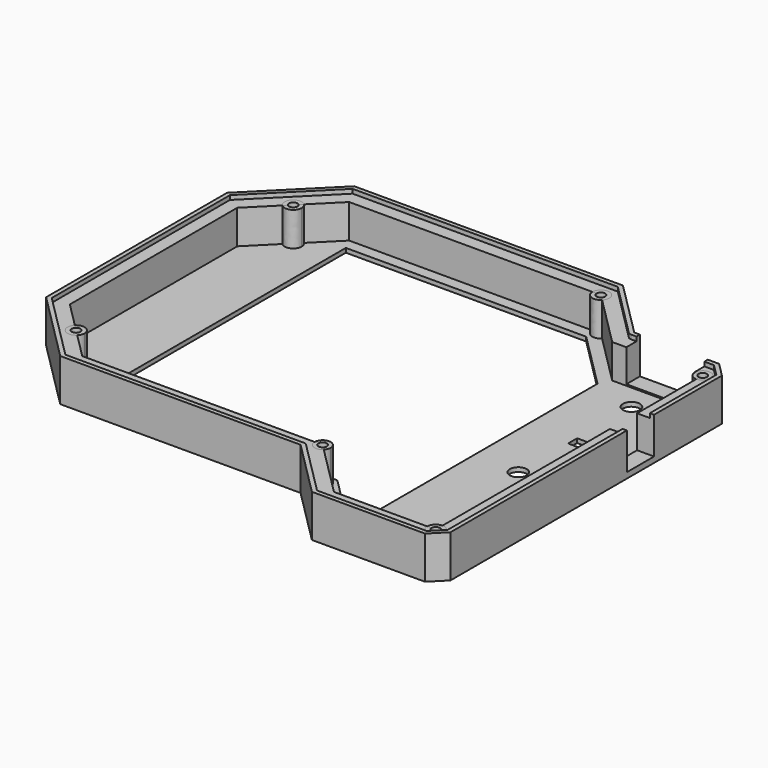
from build123d import *

# Parameters (mm, degrees)
PAD007_DEPTH    = 15
THICKNESS001_T  = -1.5
PAD008_DEPTH    = 13.5
POCKET009_DEPTH = 12
PAD009_DEPTH    = 13.5
POCKET010_DEPTH = 10
SKETCH028_R     = 3
POCKET011_DEPTH = 15.001
POCKET012_DEPTH = 10
SKETCH031_W     = 14
SKETCH031_H     = 12
POCKET013_DEPTH = 10


with BuildPart() as part:
    # Sketch024 → Pad007 (new body)
    with BuildSketch(Plane.XY):
        with BuildLine():
            add(Edge.make_bspline(
                [(154.99842, -32.99968), (184.99836, -32.99968)],
                knots=[0, 0, 11811, 11811], degree=1))
            add(Edge.make_bspline(
                [(184.99836, -32.99968), (189.99962, -37.9984)],
                knots=[0, 0, 2783.879487, 2783.879487], degree=1))
            add(Edge.make_bspline(
                [(189.99962, -37.9984), (189.99962, -157.99816)],
                knots=[0, 0, 47244, 47244], degree=1))
            add(Edge.make_bspline(
                [(189.99962, -157.99816), (184.99836, -162.99942)],
                knots=[0, 0, 2784.586504, 2784.586504], degree=1))
            add(Edge.make_bspline(
                [(184.99836, -162.99942), (144.99844, -162.99942)],
                knots=[0, 0, 15748, 15748], degree=1))
            add(Edge.make_bspline(
                [(144.99844, -162.99942), (124.99848, -142.99946)],
                knots=[0, 0, 11135.51759, 11135.51759], degree=1))
            add(Edge.make_bspline(
                [(124.99848, -142.99946), (39.99992, -142.99946)],
                knots=[0, 0, 33464, 33464], degree=1))
            add(Edge.make_bspline(
                [(39.99992, -142.99946), (14.9987, -117.99824)],
                knots=[0, 0, 13920.104094, 13920.104094], degree=1))
            add(Edge.make_bspline(
                [(14.9987, -117.99824), (14.9987, -37.9984)],
                knots=[0, 0, 31496, 31496], degree=1))
            add(Edge.make_bspline(
                [(14.9987, -37.9984), (39.99992, -12.99972)],
                knots=[0, 0, 13919.397006, 13919.397006], degree=1))
            add(Edge.make_bspline(
                [(39.99992, -12.99972), (134.99846, -12.99972)],
                knots=[0, 0, 37401, 37401], degree=1))
            add(Edge.make_bspline(
                [(134.99846, -12.99972), (154.99842, -32.99968)],
                knots=[0, 0, 11135.51759, 11135.51759], degree=1))
        make_face()
    extrude(amount=PAD007_DEPTH)

    # Thickness001
    thickness001_openings = [part.faces().sort_by_distance(p)[0] for p in [
        (104.958123, -83.896462, 15),
    ]]
    offset(amount=THICKNESS001_T, openings=thickness001_openings)

    # Sketch024 → Pad008 (join)
    with BuildSketch(Plane.XY):
        with BuildLine():
            add(Edge.make_bspline(
                [(154.99842, -32.99968), (184.99836, -32.99968)],
                knots=[0, 0, 11811, 11811], degree=1))
            add(Edge.make_bspline(
                [(184.99836, -32.99968), (189.99962, -37.9984)],
                knots=[0, 0, 2783.879487, 2783.879487], degree=1))
            add(Edge.make_bspline(
                [(189.99962, -37.9984), (189.99962, -157.99816)],
                knots=[0, 0, 47244, 47244], degree=1))
            add(Edge.make_bspline(
                [(189.99962, -157.99816), (184.99836, -162.99942)],
                knots=[0, 0, 2784.586504, 2784.586504], degree=1))
            add(Edge.make_bspline(
                [(184.99836, -162.99942), (144.99844, -162.99942)],
                knots=[0, 0, 15748, 15748], degree=1))
            add(Edge.make_bspline(
                [(144.99844, -162.99942), (124.99848, -142.99946)],
                knots=[0, 0, 11135.51759, 11135.51759], degree=1))
            add(Edge.make_bspline(
                [(124.99848, -142.99946), (39.99992, -142.99946)],
                knots=[0, 0, 33464, 33464], degree=1))
            add(Edge.make_bspline(
                [(39.99992, -142.99946), (14.9987, -117.99824)],
                knots=[0, 0, 13920.104094, 13920.104094], degree=1))
            add(Edge.make_bspline(
                [(14.9987, -117.99824), (14.9987, -37.9984)],
                knots=[0, 0, 31496, 31496], degree=1))
            add(Edge.make_bspline(
                [(14.9987, -37.9984), (39.99992, -12.99972)],
                knots=[0, 0, 13919.397006, 13919.397006], degree=1))
            add(Edge.make_bspline(
                [(39.99992, -12.99972), (134.99846, -12.99972)],
                knots=[0, 0, 37401, 37401], degree=1))
            add(Edge.make_bspline(
                [(134.99846, -12.99972), (154.99842, -32.99968)],
                knots=[0, 0, 11135.51759, 11135.51759], degree=1))
        make_face()
    extrude(amount=PAD008_DEPTH)

    # Sketch025 (on Face41 of Pad008) → Pocket009 (cut)
    with BuildSketch(Plane.XY.offset(13.5)):
        with BuildLine():
            add(Edge.make_bspline(
                [(42.99966, -18.9992), (131.99872, -18.9992)],
                knots=[0, 0, 35039, 35039], degree=1))
            add(Edge.make_bspline(
                [(131.99872, -18.9992), (151.99868, -38.99916)],
                knots=[0, 0, 11135.51759, 11135.51759], degree=1))
            add(Edge.make_bspline(
                [(151.99868, -38.99916), (183.9976, -38.99916)],
                knots=[0, 0, 12598, 12598], degree=1))
            add(Edge.make_bspline(
                [(183.9976, -38.99916), (183.9976, -156.99994)],
                knots=[0, 0, 46457, 46457], degree=1))
            add(Edge.make_bspline(
                [(183.9976, -156.99994), (147.99818, -156.99994)],
                knots=[0, 0, 14173, 14173], degree=1))
            add(Edge.make_bspline(
                [(147.99818, -156.99994), (127.99822, -136.99998)],
                knots=[0, 0, 11135.51759, 11135.51759], degree=1))
            add(Edge.make_bspline(
                [(127.99822, -136.99998), (42.99966, -136.99998)],
                knots=[0, 0, 33464, 33464], degree=1))
            add(Edge.make_bspline(
                [(42.99966, -136.99998), (20.99818, -114.9985)],
                knots=[0, 0, 12249.917877, 12249.917877], degree=1))
            add(Edge.make_bspline(
                [(20.99818, -114.9985), (20.99818, -40.99814)],
                knots=[0, 0, 29134, 29134], degree=1))
            add(Edge.make_bspline(
                [(20.99818, -40.99814), (42.99966, -18.9992)],
                knots=[0, 0, 12249.210791, 12249.210791], degree=1))
        make_face()
    extrude(amount=-POCKET009_DEPTH, mode=Mode.SUBTRACT)

    # Sketch026 → Pad009 (join)
    with BuildSketch(Plane.XY):
        with BuildLine():
            add(Edge.make_bspline(
                [(186.828303, -38.999922), (186.828303, -34.10096), (182.585678, -36.550441), (178.343052, -38.999922), (182.585678, -41.449403), (186.828303, -43.898884), (186.828303, -38.999922)],
                knots=[0, 0, 0, 2.094395, 2.094395, 4.18879, 4.18879, 6.283185, 6.283185, 6.283185], degree=2, weights=[1, 0.5, 1, 0.5, 1, 0.5, 1]))
        make_face()
        with BuildLine():
            add(Edge.make_bspline(
                [(186.99988, -156.99994), (186.99988, -151.803798), (182.499889, -154.401869), (177.999898, -156.99994), (182.499889, -159.598011), (186.99988, -162.196082), (186.99988, -156.99994)],
                knots=[0, 0, 0, 2.094395, 2.094395, 4.18879, 4.18879, 6.283185, 6.283185, 6.283185], degree=2, weights=[1, 0.5, 1, 0.5, 1, 0.5, 1]))
        make_face()
        with BuildLine():
            add(Edge.make_bspline(
                [(130.828415, -136.99998), (130.828415, -132.101018), (126.585789, -134.550499), (122.343164, -136.99998), (126.585789, -139.449461), (130.828415, -141.898942), (130.828415, -136.99998)],
                knots=[0, 0, 0, 2.094395, 2.094395, 4.18879, 4.18879, 6.283185, 6.283185, 6.283185], degree=2, weights=[1, 0.5, 1, 0.5, 1, 0.5, 1]))
        make_face()
        with BuildLine():
            add(Edge.make_bspline(
                [(34.99993, -126.000002), (34.99993, -120.80386), (30.499939, -123.401931), (25.999948, -126.000002), (30.499939, -128.598073), (34.99993, -131.196144), (34.99993, -126.000002)],
                knots=[0, 0, 0, 2.094395, 2.094395, 4.18879, 4.18879, 6.283185, 6.283185, 6.283185], degree=2, weights=[1, 0.5, 1, 0.5, 1, 0.5, 1]))
        make_face()
        with BuildLine():
            add(Edge.make_bspline(
                [(34.99993, -29.99994), (34.99993, -24.803798), (30.499939, -27.401869), (25.999948, -29.99994), (30.499939, -32.598011), (34.99993, -35.196082), (34.99993, -29.99994)],
                knots=[0, 0, 0, 2.094395, 2.094395, 4.18879, 4.18879, 6.283185, 6.283185, 6.283185], degree=2, weights=[1, 0.5, 1, 0.5, 1, 0.5, 1]))
        make_face()
        with BuildLine():
            add(Edge.make_bspline(
                [(134.999984, -18.999987), (134.999984, -13.803845), (130.499993, -16.401916), (126.000002, -18.999987), (130.499993, -21.598058), (134.999984, -24.196129), (134.999984, -18.999987)],
                knots=[0, 0, 0, 2.094395, 2.094395, 4.18879, 4.18879, 6.283185, 6.283185, 6.283185], degree=2, weights=[1, 0.5, 1, 0.5, 1, 0.5, 1]))
        make_face()
    extrude(amount=PAD009_DEPTH)

    # Sketch027 (on Face47 of Pad009) → Pocket010 (cut)
    with BuildSketch(Plane.XY.offset(13.5)):
        with BuildLine():
            add(Edge.make_bspline(
                [(33.499936, -29.99994), (33.499936, -27.401865), (31.249936, -28.700902), (28.999937, -29.99994), (31.249936, -31.298978), (33.499936, -32.598015), (33.499936, -29.99994)],
                knots=[0, 0, 0, 2.094395, 2.094395, 4.18879, 4.18879, 6.283185, 6.283185, 6.283185], degree=2, weights=[1, 0.5, 1, 0.5, 1, 0.5, 1]))
        make_face()
        with BuildLine():
            add(Edge.make_bspline(
                [(133.49999, -18.999987), (133.49999, -16.401912), (131.24999, -17.70095), (128.999991, -18.999987), (131.24999, -20.299025), (133.49999, -21.598063), (133.49999, -18.999987)],
                knots=[0, 0, 0, 2.094395, 2.094395, 4.18879, 4.18879, 6.283185, 6.283185, 6.283185], degree=2, weights=[1, 0.5, 1, 0.5, 1, 0.5, 1]))
        make_face()
        with BuildLine():
            add(Edge.make_bspline(
                [(185.499886, -38.999922), (185.499886, -36.401847), (183.249886, -37.700884), (180.999887, -38.999922), (183.249886, -40.29896), (185.499886, -41.597997), (185.499886, -38.999922)],
                knots=[0, 0, 0, 2.094395, 2.094395, 4.18879, 4.18879, 6.283185, 6.283185, 6.283185], degree=2, weights=[1, 0.5, 1, 0.5, 1, 0.5, 1]))
        make_face()
        with BuildLine():
            add(Edge.make_bspline(
                [(185.499886, -156.99994), (185.499886, -154.401865), (183.249886, -155.700902), (180.999887, -156.99994), (183.249886, -158.298978), (185.499886, -159.598015), (185.499886, -156.99994)],
                knots=[0, 0, 0, 2.094395, 2.094395, 4.18879, 4.18879, 6.283185, 6.283185, 6.283185], degree=2, weights=[1, 0.5, 1, 0.5, 1, 0.5, 1]))
        make_face()
        with BuildLine():
            add(Edge.make_bspline(
                [(129.499998, -136.99998), (129.499998, -134.401905), (127.249998, -135.700942), (124.999999, -136.99998), (127.249998, -138.299018), (129.499998, -139.598055), (129.499998, -136.99998)],
                knots=[0, 0, 0, 2.094395, 2.094395, 4.18879, 4.18879, 6.283185, 6.283185, 6.283185], degree=2, weights=[1, 0.5, 1, 0.5, 1, 0.5, 1]))
        make_face()
        with BuildLine():
            add(Edge.make_bspline(
                [(33.499936, -126.000002), (33.499936, -123.401927), (31.249936, -124.700964), (28.999937, -126.000002), (31.249936, -127.29904), (33.499936, -128.598077), (33.499936, -126.000002)],
                knots=[0, 0, 0, 2.094395, 2.094395, 4.18879, 4.18879, 6.283185, 6.283185, 6.283185], degree=2, weights=[1, 0.5, 1, 0.5, 1, 0.5, 1]))
        make_face()
    extrude(amount=-POCKET010_DEPTH, mode=Mode.SUBTRACT)

    # Sketch028 → Pocket011 (cut, through all)
    with BuildSketch(Plane.XY):
        with BuildLine():
            add(Edge.make_bspline(
                [(165.99916, -75.99934), (171.99864, -75.99934)],
                knots=[0, 0, 2362, 2362], degree=1))
            add(Edge.make_bspline(
                [(171.99864, -75.99934), (171.99864, -71.99884)],
                knots=[0, 0, 1575, 1575], degree=1))
            add(Edge.make_bspline(
                [(171.99864, -71.99884), (165.99916, -71.99884)],
                knots=[0, 0, 2362, 2362], degree=1))
            add(Edge.make_bspline(
                [(165.99916, -71.99884), (165.99916, -75.99934)],
                knots=[0, 0, 1575, 1575], degree=1))
        make_face()
        with Locations((166, -48)):
            Circle(SKETCH028_R)
        with Locations((166, -148)):
            Circle(SKETCH028_R)
        Polygon((45, -23), (130, -23), (150, -43), (150, -153), (130, -133), (45, -133), align=None)
        with Locations((166, -98)):
            Circle(SKETCH028_R)
    extrude(amount=POCKET011_DEPTH, mode=Mode.SUBTRACT)

    # Sketch030 → Pocket012 (cut)
    with BuildSketch(Plane.XZ.offset(41)):
        with BuildLine():
            add(Edge.make_bspline(
                [(157, 2), (181, 2)],
                knots=[0, 0, 9448, 9448], degree=1))
            Line((181, 2), (181, 16))
            Line((181, 16), (157, 16))
            Line((157, 16), (157, 2))
        make_face()
    extrude(amount=-POCKET012_DEPTH, mode=Mode.SUBTRACT)

    # Sketch031 → Pocket013 (cut)
    with BuildSketch(Plane(origin=(191, 0, 0), x_dir=(0, 0, -1), z_dir=(1, 0, 0))):
        with Locations((-9, -74)):
            Rectangle(SKETCH031_W, SKETCH031_H)
    extrude(amount=-POCKET013_DEPTH, mode=Mode.SUBTRACT)


solid = part.part
